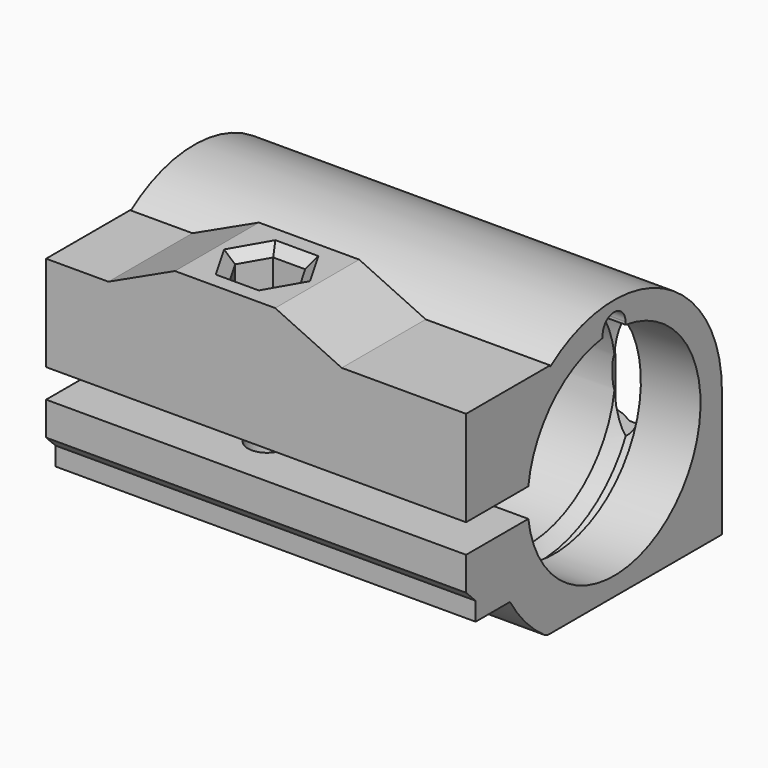
from build123d import *

# Parameters (mm, degrees)
PAD_DEPTH       = 27
PAD_DEPTH_BACK  = 1
POCKET_DEPTH    = 22
POCKET001_DEPTH = 44.001
SKETCH001_R     = 11.325
POCKET002_DEPTH = 44.001
SKETCH003_R     = 2
POCKET003_DEPTH = 28.001
POCKET004_DEPTH = 8
SKETCH005_W     = 14
SKETCH005_H     = 3
POCKET005_DEPTH = 44.001
POCKET006_DEPTH = 54.001
SKETCH007_R     = 2.35
POCKET007_DEPTH = 7
SKETCH014_R     = 3.5
POCKET008_DEPTH = 5.5
POCKET009_DEPTH = 11.001
SKETCH022_R     = 2.75
POCKET010_DEPTH = 0.75
PAD001_DEPTH    = 4
CHAMFER_SIZE    = 1.49
FILLET_R        = 1
CHAMFER001_SIZE = 0.99
CHAMFER002_SIZE = 1


with BuildPart() as part:
    # Sketch → Pad (new body, two sides)
    with BuildSketch(Plane.XY) as pad_sk:
        Polygon((44, 33.5), (44, 0), (0, 0), (0, 33.5), (5, 38.5), (39, 38.5), align=None)
    extrude(amount=PAD_DEPTH)
    extrude(pad_sk.sketch, amount=-PAD_DEPTH_BACK)

    # Sketch002 → Pocket (cut)
    with BuildSketch(Plane.XY.offset(27)):
        with BuildLine():
            Line((35.625, 38.5), (0, 38.5))
            Line((0, 38.5), (0, 33.5))
            Line((0, 33.5), (31.625, 33.5))
            Line((31.625, 33.5), (31.625, 34.5))
            ThreePointArc((35.625, 38.5), (32.796573, 37.328427), (31.625, 34.5))
        make_face()
    extrude(amount=-POCKET_DEPTH, mode=Mode.SUBTRACT)

    # Sketch016 → Pocket001 (cut, through all)
    with BuildSketch(Plane(origin=(0, 0, 0), x_dir=(0, -1, 0), z_dir=(-1, 0, 0))):
        with BuildLine():
            ThreePointArc((-11, 23.614418), (-25.745878, 24.853571), (-33.5, 12.25))
            Line((-33.5, 12.25), (-33.5, 3))
            Line((-33.5, 3), (-38.5, 3))
            Line((-38.5, 3), (-38.5, 27))
            Line((-11, 27), (-38.5, 27))
            Line((-11, 27), (-11, 23.614418))
        make_face()
        with BuildLine():
            ThreePointArc((-20.88, 12.25), (-19.38, 10.75), (-17.88, 12.25))
            Line((-17.88, 12.25), (-17.88, 23.75))
            ThreePointArc((-17.88, 23.75), (-19.38, 25.25), (-20.88, 23.75))
            Line((-20.88, 12.25), (-20.88, 23.75))
        make_face()
    extrude(amount=-POCKET001_DEPTH, mode=Mode.SUBTRACT)

    # Sketch001 → Pocket002 (cut, through all)
    with BuildSketch(Plane(origin=(0, 0, 0), x_dir=(0, -1, 0), z_dir=(-1, 0, 0))):
        with Locations((-19.375, 12.25)):
            Circle(SKETCH001_R)
    extrude(amount=-POCKET002_DEPTH, mode=Mode.SUBTRACT)

    # Sketch003 → Pocket003 (cut, through all)
    with BuildSketch(Plane.XY.offset(27)):
        with Locations((18.75, 5.5)):
            Circle(SKETCH003_R)
        with BuildLine():
            ThreePointArc((37.625, 34.5), (35.625, 36.5), (33.625, 34.5))
            Line((33.625, 34.5), (33.625, 32.5))
            ThreePointArc((33.625, 32.5), (35.625, 30.5), (37.625, 32.5))
            Line((37.625, 34.5), (37.625, 32.5))
        make_face()
    extrude(amount=-POCKET003_DEPTH, mode=Mode.SUBTRACT)

    # Sketch004 → Pocket004 (cut)
    with BuildSketch(Plane.XY.offset(27)):
        Polygon((17.075, 8.401185), (15.4, 5.5), (17.075, 2.598815), (20.425, 2.598815), (22.1, 5.5), (20.425, 8.401185), align=None)
    extrude(amount=-POCKET004_DEPTH, mode=Mode.SUBTRACT)

    # Sketch005 → Pocket005 (cut, through all)
    with BuildSketch(Plane(origin=(0, 0, 0), x_dir=(0, -1, 0), z_dir=(-1, 0, 0))):
        with Locations((-3.5, 12.25)):
            Rectangle(SKETCH005_W, SKETCH005_H)
    extrude(amount=-POCKET005_DEPTH, mode=Mode.SUBTRACT)

    # Sketch006 → Pocket006 (cut, through all)
    with BuildSketch(Plane.YZ.offset(54)):
        with BuildLine():
            ThreePointArc((5.75, 4.068466), (7.861395, 1.270798), (10.531304, -1))
            Line((10.531304, -1), (-3.5, -1))
            Line((-3.5, -1), (-3.5, 10.75))
            Line((-3.5, 10.75), (0, 10.75))
            Line((0, 10.75), (0, 7.25))
            Line((1.25, 6), (0, 7.25))
            Line((1.25, 4.068466), (1.25, 6))
            Line((1.25, 4.068466), (5.75, 4.068466))
        make_face()
    extrude(amount=-POCKET006_DEPTH, mode=Mode.SUBTRACT)

    # Sketch007 → Pocket007 (cut)
    with BuildSketch(Plane(origin=(0, 0, -1), x_dir=(1, 0, 0), z_dir=(0, 0, -1))):
        with Locations((27.38, -35)):
            Circle(SKETCH007_R)
        with Locations((11.38, -35)):
            Circle(SKETCH007_R)
    extrude(amount=-POCKET007_DEPTH, mode=Mode.SUBTRACT)

    # Sketch008 → Groove (revolve, cut)
    with BuildSketch(Plane(origin=(0, 0, 12.25), x_dir=(1, 0, 0), z_dir=(0, 0, -1))):
        Polygon((37.75, -8.375), (37.75, -6.875), (36.25, -6.875), (34.75, -8.375), align=None)
        Polygon((3.75, -8.375), (3.75, -6.875), (2.25, -6.875), (0.75, -8.375), align=None)
    revolve(axis=Axis((3.75, 19.375, 12.25), (1, 0, 0)), mode=Mode.SUBTRACT)

    # Sketch014 → Pocket008 (cut)
    with BuildSketch(Plane(origin=(0, 0, -1), x_dir=(1, 0, 0), z_dir=(0, 0, -1))):
        with Locations((18.75, -5.5)):
            Circle(SKETCH014_R)
    extrude(amount=-POCKET008_DEPTH, mode=Mode.SUBTRACT)

    # Sketch018 → Pocket009 (cut, through all)
    with BuildSketch(Plane(origin=(0, 11, 0), x_dir=(-1, 0, 0), z_dir=(0, 1, 0))):
        Polygon((-30.969647, 23.75), (-24, 27), (-44, 27), (-44, 23.75), align=None)
        Polygon((-13.5, 27), (0, 27), (0, 23.75), (-6.530353, 23.75), align=None)
    extrude(amount=-POCKET009_DEPTH, mode=Mode.SUBTRACT)

    # Sketch022 (on Face2 of Pocket009) → Pocket010 (cut)
    with BuildSketch(Plane(origin=(0, 0, -1), x_dir=(1, 0, 0), z_dir=(0, 0, -1))):
        with Locations((27.38, -35)):
            Circle(SKETCH022_R)
        with Locations((11.38, -35)):
            Circle(SKETCH022_R)
    extrude(amount=-POCKET010_DEPTH, mode=Mode.SUBTRACT)

    # Sketch023 (on Face30 of Pocket010) → Pad001 (join)
    with BuildSketch(Plane.XY.offset(3)):
        with BuildLine():
            ThreePointArc((14.208427, 38.5), (11.38, 39.5), (8.551573, 38.5))
            Line((8.551573, 38.5), (14.208427, 38.5))
        make_face()
        with BuildLine():
            ThreePointArc((30.208427, 38.5), (27.38, 39.5), (24.551573, 38.5))
            Line((24.551573, 38.5), (30.208427, 38.5))
        make_face()
    extrude(amount=-PAD001_DEPTH)

    # Chamfer
    chamfer_edges = [part.edges().sort_by_distance(p)[0] for p in [
        (16.75, 5.5, 4.5),
    ]]
    chamfer(chamfer_edges, length=CHAMFER_SIZE)

    # Fillet
    fillet_edges = [part.edges().sort_by_distance(p)[0] for p in [
        (39, 38.5, 1),
        (30.208427, 38.5, 1),
        (24.551573, 38.5, 1),
        (8.551573, 38.5, 1),
        (14.208427, 38.5, 1),
        (5, 38.5, 1),
        (31.407003, 33.5, 3),
        (40.8125, 33.5, 3),
        (4.785497, 33.5, 3),
        (19.38, 33.5, 3),
        (22, 10.531304, -1),
    ]]
    fillet(fillet_edges, radius=FILLET_R)

    # Chamfer001
    chamfer001_edges = [part.edges().sort_by_distance(p)[0] for p in [
        (33.625, 33.5, 8.125),
    ]]
    chamfer(chamfer001_edges, length=CHAMFER001_SIZE)

    # Chamfer002
    chamfer002_edges = [part.edges().sort_by_distance(p)[0] for p in [
        (21.2625, 6.950593, 27),
        (18.75, 8.401185, 27),
        (16.2375, 6.950593, 27),
        (16.2375, 4.049407, 27),
        (18.75, 2.598815, 27),
        (21.2625, 4.049407, 27),
    ]]
    chamfer(chamfer002_edges, length=CHAMFER002_SIZE)


solid = part.part
